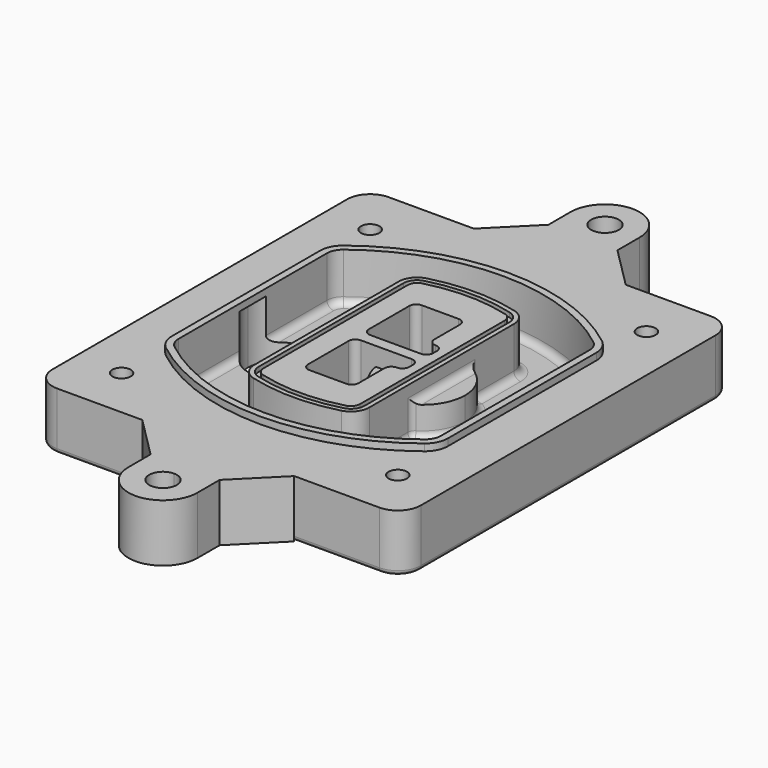
from build123d import *

# Parameters (mm, degrees)
F0_R      = 4
F1_DEPTH  = 25
F2_DEPTH  = 3
F3_DEPTH  = 18
F5_DEPTH  = 21
F6_DEPTH  = 2
F8_DEPTH  = 20
F9_DEPTH  = 16
F10_DEPTH = 25
F7_R      = 6
F7_R_2    = 4
F11_DEPTH = 6
F13_DEPTH = 9
F14_R     = 3
F15_R     = 2
F16_R     = 6
F17_DEPTH = 25


with BuildPart() as f1:
    # F0 (on Top) → F1 (new body)
    with BuildSketch(Plane.XY):
        with BuildLine():
            ThreePointArc((14.05, 38.3825811321), (16.9789321881, 31.3115133202), (24.05, 28.3825811321))
            Line((24.05, 28.3825811321), (164.05, 28.3825811321))
            ThreePointArc((164.05, 28.3825811321), (171.1210678119, 31.3115133202), (174.05, 38.3825811321))
            Line((174.05, 38.3825811321), (174.05, 198.3825811321))
            ThreePointArc((174.05, 198.3825811321), (171.1210678119, 205.4536489439), (164.05, 208.3825811321))
            Line((164.05, 208.3825811321), (24.05, 208.3825811321))
            ThreePointArc((24.05, 208.3825811321), (16.9789321881, 205.4536489439), (14.05, 198.3825811321))
            Line((14.05, 198.3825811321), (14.05, 38.3825811321))
        make_face()
        with Locations((34.05, 50.8825811321)):
            Circle(F0_R, mode=Mode.SUBTRACT)
        with Locations((154.05, 50.8825811321)):
            Circle(F0_R, mode=Mode.SUBTRACT)
        with Locations((34.05, 185.8825811321)):
            Circle(F0_R, mode=Mode.SUBTRACT)
        with BuildLine():
            ThreePointArc((30.05, 158.6760234193), (31.4679615202, 164.8154295545), (35.4346153846, 169.7112011673))
            ThreePointArc((35.4346153846, 169.7112011673), (94.05, 189.8825811321), (152.6653846154, 169.7112011673))
            ThreePointArc((152.6653846154, 169.7112011673), (156.6320384798, 164.8154295545), (158.05, 158.6760234193))
            Line((158.05, 158.6760234193), (158.05, 78.0891388448))
            ThreePointArc((158.05, 78.0891388448), (156.6320384798, 71.9497327097), (152.6653846154, 67.0539610969))
            ThreePointArc((152.6653846154, 67.0539610969), (94.05, 46.8825811321), (35.4346153846, 67.0539610969))
            ThreePointArc((35.4346153846, 67.0539610969), (31.4679615202, 71.9497327097), (30.05, 78.0891388448))
            Line((30.05, 78.0891388448), (30.05, 158.6760234193))
        make_face(mode=Mode.SUBTRACT)
        with Locations((154.05, 185.8825811321)):
            Circle(F0_R, mode=Mode.SUBTRACT)
        with BuildLine():
            ThreePointArc((152.6653846154, 169.7112011673), (94.05, 189.8825811321), (35.4346153846, 169.7112011673))
            ThreePointArc((35.4346153846, 169.7112011673), (31.4679615202, 164.8154295545), (30.05, 158.6760234193))
            Line((30.05, 158.6760234193), (30.05, 78.0891388448))
            ThreePointArc((30.05, 78.0891388448), (31.4679615202, 71.9497327097), (35.4346153846, 67.0539610969))
            ThreePointArc((35.4346153846, 67.0539610969), (94.05, 46.8825811321), (152.6653846154, 67.0539610969))
            ThreePointArc((152.6653846154, 67.0539610969), (156.6320384798, 71.9497327097), (158.05, 78.0891388448))
            Line((158.05, 78.0891388448), (158.05, 158.6760234193))
            ThreePointArc((158.05, 158.6760234193), (156.6320384798, 164.8154295545), (152.6653846154, 169.7112011673))
        make_face()
        with BuildLine():
            Line((34.05, 78.0891388448), (34.05, 158.6760234193))
            ThreePointArc((34.05, 158.6760234193), (35.0628296573, 163.0613135158), (37.8961538462, 166.5582932393))
            ThreePointArc((37.8961538462, 166.5582932393), (94.05, 185.8825811321), (150.2038461538, 166.5582932393))
            ThreePointArc((150.2038461538, 166.5582932393), (153.0371703427, 163.0613135158), (154.05, 158.6760234193))
            Line((154.05, 158.6760234193), (154.05, 78.0891388448))
            ThreePointArc((154.05, 78.0891388448), (153.0371703427, 73.7038487483), (150.2038461538, 70.2068690248))
            ThreePointArc((150.2038461538, 70.2068690248), (94.05, 50.8825811321), (37.8961538462, 70.2068690248))
            ThreePointArc((37.8961538462, 70.2068690248), (35.0628296573, 73.7038487483), (34.05, 78.0891388448))
        make_face(mode=Mode.SUBTRACT)
        with BuildLine():
            ThreePointArc((37.8961538462, 166.5582932393), (35.0628296573, 163.0613135158), (34.05, 158.6760234193))
            Line((34.05, 158.6760234193), (34.05, 78.0891388448))
            ThreePointArc((34.05, 78.0891388448), (35.0628296573, 73.7038487483), (37.8961538462, 70.2068690248))
            ThreePointArc((37.8961538462, 70.2068690248), (94.05, 50.8825811321), (150.2038461538, 70.2068690248))
            ThreePointArc((150.2038461538, 70.2068690248), (153.0371703427, 73.7038487483), (154.05, 78.0891388448))
            Line((154.05, 78.0891388448), (154.05, 158.6760234193))
            ThreePointArc((154.05, 158.6760234193), (153.0371703427, 163.0613135158), (150.2038461538, 166.5582932393))
            ThreePointArc((150.2038461538, 166.5582932393), (94.05, 185.8825811321), (37.8961538462, 166.5582932393))
        make_face()
        with BuildLine():
            ThreePointArc((148.3576923077, 164.1936122933), (150.3410192399, 161.7457264869), (151.05, 158.6760234193))
            Line((151.05, 158.6760234193), (151.05, 78.0891388448))
            ThreePointArc((151.05, 78.0891388448), (150.3410192399, 75.0194357772), (148.3576923077, 72.5715499708))
            ThreePointArc((148.3576923077, 72.5715499708), (94.05, 53.8825811321), (39.7423076923, 72.5715499708))
            ThreePointArc((39.7423076923, 72.5715499708), (37.7589807601, 75.0194357772), (37.05, 78.0891388448))
            Line((37.05, 78.0891388448), (37.05, 158.6760234193))
            ThreePointArc((37.05, 158.6760234193), (37.7589807601, 161.7457264869), (39.7423076923, 164.1936122933))
            ThreePointArc((39.7423076923, 164.1936122933), (94.05, 182.8825811321), (148.3576923077, 164.1936122933))
        make_face(mode=Mode.SUBTRACT)
        with BuildLine():
            Line((151.05, 78.0891388448), (151.05, 158.6760234193))
            ThreePointArc((151.05, 158.6760234193), (150.3410192399, 161.7457264869), (148.3576923077, 164.1936122933))
            ThreePointArc((148.3576923077, 164.1936122933), (94.05, 182.8825811321), (39.7423076923, 164.1936122933))
            ThreePointArc((39.7423076923, 164.1936122933), (37.7589807601, 161.7457264869), (37.05, 158.6760234193))
            Line((37.05, 158.6760234193), (37.05, 78.0891388448))
            ThreePointArc((37.05, 78.0891388448), (37.7589807601, 75.0194357772), (39.7423076923, 72.5715499708))
            ThreePointArc((39.7423076923, 72.5715499708), (94.05, 53.8825811321), (148.3576923077, 72.5715499708))
            ThreePointArc((148.3576923077, 72.5715499708), (150.3410192399, 75.0194357772), (151.05, 78.0891388448))
        make_face()
    extrude(amount=-F1_DEPTH)

    # F0 (on Top) → F2 (join)
    with BuildSketch(Plane.XY):
        with BuildLine():
            ThreePointArc((37.8961538462, 166.5582932393), (35.0628296573, 163.0613135158), (34.05, 158.6760234193))
            Line((34.05, 158.6760234193), (34.05, 78.0891388448))
            ThreePointArc((34.05, 78.0891388448), (35.0628296573, 73.7038487483), (37.8961538462, 70.2068690248))
            ThreePointArc((37.8961538462, 70.2068690248), (94.05, 50.8825811321), (150.2038461538, 70.2068690248))
            ThreePointArc((150.2038461538, 70.2068690248), (153.0371703427, 73.7038487483), (154.05, 78.0891388448))
            Line((154.05, 78.0891388448), (154.05, 158.6760234193))
            ThreePointArc((154.05, 158.6760234193), (153.0371703427, 163.0613135158), (150.2038461538, 166.5582932393))
            ThreePointArc((150.2038461538, 166.5582932393), (94.05, 185.8825811321), (37.8961538462, 166.5582932393))
        make_face()
        with BuildLine():
            ThreePointArc((148.3576923077, 164.1936122933), (150.3410192399, 161.7457264869), (151.05, 158.6760234193))
            Line((151.05, 158.6760234193), (151.05, 78.0891388448))
            ThreePointArc((151.05, 78.0891388448), (150.3410192399, 75.0194357772), (148.3576923077, 72.5715499708))
            ThreePointArc((148.3576923077, 72.5715499708), (94.05, 53.8825811321), (39.7423076923, 72.5715499708))
            ThreePointArc((39.7423076923, 72.5715499708), (37.7589807601, 75.0194357772), (37.05, 78.0891388448))
            Line((37.05, 78.0891388448), (37.05, 158.6760234193))
            ThreePointArc((37.05, 158.6760234193), (37.7589807601, 161.7457264869), (39.7423076923, 164.1936122933))
            ThreePointArc((39.7423076923, 164.1936122933), (94.05, 182.8825811321), (148.3576923077, 164.1936122933))
        make_face(mode=Mode.SUBTRACT)
    extrude(amount=F2_DEPTH)

    # F0 (on Top) → F3 (cut)
    with BuildSketch(Plane.XY):
        with BuildLine():
            Line((151.05, 78.0891388448), (151.05, 158.6760234193))
            ThreePointArc((151.05, 158.6760234193), (150.3410192399, 161.7457264869), (148.3576923077, 164.1936122933))
            ThreePointArc((148.3576923077, 164.1936122933), (94.05, 182.8825811321), (39.7423076923, 164.1936122933))
            ThreePointArc((39.7423076923, 164.1936122933), (37.7589807601, 161.7457264869), (37.05, 158.6760234193))
            Line((37.05, 158.6760234193), (37.05, 78.0891388448))
            ThreePointArc((37.05, 78.0891388448), (37.7589807601, 75.0194357772), (39.7423076923, 72.5715499708))
            ThreePointArc((39.7423076923, 72.5715499708), (94.05, 53.8825811321), (148.3576923077, 72.5715499708))
            ThreePointArc((148.3576923077, 72.5715499708), (150.3410192399, 75.0194357772), (151.05, 78.0891388448))
        make_face()
    extrude(amount=-F3_DEPTH, mode=Mode.SUBTRACT)

    # F4 (on face) → F5 (join, through all)
    with BuildSketch(Plane.XY.offset(3)):
        with BuildLine():
            ThreePointArc((69.05, 79.13605345), (70.6988454002, 74.2716074127), (74.9657088123, 71.4123412437))
            ThreePointArc((74.9657088123, 71.4123412437), (94.05, 68.8825811321), (113.1342911877, 71.4123412437))
            ThreePointArc((113.1342911877, 71.4123412437), (117.4011545998, 74.2716074127), (119.05, 79.13605345))
            Line((119.05, 79.13605345), (119.05, 157.6291088141))
            ThreePointArc((119.05, 157.6291088141), (117.4011545998, 162.4935548514), (113.1342911877, 165.3528210204))
            ThreePointArc((113.1342911877, 165.3528210204), (94.05, 167.8825811321), (74.9657088123, 165.3528210204))
            ThreePointArc((74.9657088123, 165.3528210204), (70.6988454002, 162.4935548514), (69.05, 157.6291088141))
            Line((69.05, 157.6291088141), (69.05, 79.13605345))
        make_face()
        with BuildLine():
            ThreePointArc((112.6132183908, 163.4218929688), (115.8133659499, 161.2774433421), (117.05, 157.6291088141))
            Line((117.05, 157.6291088141), (117.05, 79.13605345))
            ThreePointArc((117.05, 79.13605345), (115.8133659499, 75.4877189221), (112.6132183908, 73.3432692953))
            ThreePointArc((112.6132183908, 73.3432692953), (94.05, 70.8825811321), (75.4867816092, 73.3432692953))
            ThreePointArc((75.4867816092, 73.3432692953), (72.2866340501, 75.4877189221), (71.05, 79.13605345))
            Line((71.05, 79.13605345), (71.05, 157.6291088141))
            ThreePointArc((71.05, 157.6291088141), (72.2866340501, 161.2774433421), (75.4867816092, 163.4218929688))
            ThreePointArc((75.4867816092, 163.4218929688), (94.05, 165.8825811321), (112.6132183908, 163.4218929688))
        make_face(mode=Mode.SUBTRACT)
        with BuildLine():
            Line((117.05, 79.13605345), (117.05, 157.6291088141))
            ThreePointArc((117.05, 157.6291088141), (115.8133659499, 161.2774433421), (112.6132183908, 163.4218929688))
            ThreePointArc((112.6132183908, 163.4218929688), (94.05, 165.8825811321), (75.4867816092, 163.4218929688))
            ThreePointArc((75.4867816092, 163.4218929688), (72.2866340501, 161.2774433421), (71.05, 157.6291088141))
            Line((71.05, 157.6291088141), (71.05, 79.13605345))
            ThreePointArc((71.05, 79.13605345), (72.2866340501, 75.4877189221), (75.4867816092, 73.3432692953))
            ThreePointArc((75.4867816092, 73.3432692953), (94.05, 70.8825811321), (112.6132183908, 73.3432692953))
            ThreePointArc((112.6132183908, 73.3432692953), (115.8133659499, 75.4877189221), (117.05, 79.13605345))
        make_face()
        with BuildLine():
            ThreePointArc((112.0921455939, 161.4909649173), (114.2255772999, 160.0613318328), (115.05, 157.6291088141))
            Line((115.05, 157.6291088141), (115.05, 79.13605345))
            ThreePointArc((115.05, 79.13605345), (114.2255772999, 76.7038304314), (112.0921455939, 75.2741973469))
            ThreePointArc((112.0921455939, 75.2741973469), (94.05, 72.8825811321), (76.0078544061, 75.2741973469))
            ThreePointArc((76.0078544061, 75.2741973469), (73.8744227001, 76.7038304314), (73.05, 79.13605345))
            Line((73.05, 79.13605345), (73.05, 157.6291088141))
            ThreePointArc((73.05, 157.6291088141), (73.8744227001, 160.0613318328), (76.0078544061, 161.4909649173))
            ThreePointArc((76.0078544061, 161.4909649173), (94.05, 163.8825811321), (112.0921455939, 161.4909649173))
        make_face(mode=Mode.SUBTRACT)
        with BuildLine():
            Line((115.05, 79.13605345), (115.05, 157.6291088141))
            ThreePointArc((115.05, 157.6291088141), (114.2255772999, 160.0613318328), (112.0921455939, 161.4909649173))
            ThreePointArc((112.0921455939, 161.4909649173), (94.05, 163.8825811321), (76.0078544061, 161.4909649173))
            ThreePointArc((76.0078544061, 161.4909649173), (73.8744227001, 160.0613318328), (73.05, 157.6291088141))
            Line((73.05, 157.6291088141), (73.05, 79.13605345))
            ThreePointArc((73.05, 79.13605345), (73.8744227001, 76.7038304314), (76.0078544061, 75.2741973469))
            ThreePointArc((76.0078544061, 75.2741973469), (94.05, 72.8825811321), (112.0921455939, 75.2741973469))
            ThreePointArc((112.0921455939, 75.2741973469), (114.2255772999, 76.7038304314), (115.05, 79.13605345))
        make_face()
        with BuildLine():
            Line((86.05, 115.8825811321), (108.05, 115.8825811321))
            ThreePointArc((108.05, 115.8825811321), (110.1713203436, 115.0039014756), (111.05, 112.8825811321))
            Line((111.05, 112.8825811321), (111.05, 110.8825811321))
            ThreePointArc((111.05, 110.8825811321), (110.1713203436, 108.7612607885), (108.05, 107.8825811321))
            ThreePointArc((108.05, 107.8825811321), (105.9286796564, 107.0039014756), (105.05, 104.8825811321))
            Line((105.05, 104.8825811321), (105.05, 90.8825811321))
            ThreePointArc((105.05, 90.8825811321), (104.1713203436, 88.7612607885), (102.05, 87.8825811321))
            Line((102.05, 87.8825811321), (86.05, 87.8825811321))
            ThreePointArc((86.05, 87.8825811321), (83.9286796564, 88.7612607885), (83.05, 90.8825811321))
            Line((83.05, 90.8825811321), (83.05, 112.8825811321))
            ThreePointArc((83.05, 112.8825811321), (83.9286796564, 115.0039014756), (86.05, 115.8825811321))
        make_face(mode=Mode.SUBTRACT)
        with BuildLine():
            ThreePointArc((86.05, 120.8825811321), (83.9286796564, 121.7612607885), (83.05, 123.8825811321))
            Line((83.05, 123.8825811321), (83.05, 145.8825811321))
            ThreePointArc((83.05, 145.8825811321), (83.9286796564, 148.0039014756), (86.05, 148.8825811321))
            Line((86.05, 148.8825811321), (102.05, 148.8825811321))
            ThreePointArc((102.05, 148.8825811321), (104.1713203436, 148.0039014756), (105.05, 145.8825811321))
            Line((105.05, 145.8825811321), (105.05, 131.8825811321))
            ThreePointArc((105.05, 131.8825811321), (105.9286796564, 129.7612607885), (108.05, 128.8825811321))
            ThreePointArc((108.05, 128.8825811321), (110.1713203436, 128.0039014756), (111.05, 125.8825811321))
            Line((111.05, 125.8825811321), (111.05, 123.8825811321))
            ThreePointArc((111.05, 123.8825811321), (110.1713203436, 121.7612607885), (108.05, 120.8825811321))
            Line((108.05, 120.8825811321), (86.05, 120.8825811321))
        make_face(mode=Mode.SUBTRACT)
    extrude(amount=-F5_DEPTH)

    # F4 (on face) → F6 (cut)
    with BuildSketch(Plane.XY.offset(3)):
        with BuildLine():
            Line((117.05, 79.13605345), (117.05, 157.6291088141))
            ThreePointArc((117.05, 157.6291088141), (115.8133659499, 161.2774433421), (112.6132183908, 163.4218929688))
            ThreePointArc((112.6132183908, 163.4218929688), (94.05, 165.8825811321), (75.4867816092, 163.4218929688))
            ThreePointArc((75.4867816092, 163.4218929688), (72.2866340501, 161.2774433421), (71.05, 157.6291088141))
            Line((71.05, 157.6291088141), (71.05, 79.13605345))
            ThreePointArc((71.05, 79.13605345), (72.2866340501, 75.4877189221), (75.4867816092, 73.3432692953))
            ThreePointArc((75.4867816092, 73.3432692953), (94.05, 70.8825811321), (112.6132183908, 73.3432692953))
            ThreePointArc((112.6132183908, 73.3432692953), (115.8133659499, 75.4877189221), (117.05, 79.13605345))
        make_face()
        with BuildLine():
            ThreePointArc((112.0921455939, 161.4909649173), (114.2255772999, 160.0613318328), (115.05, 157.6291088141))
            Line((115.05, 157.6291088141), (115.05, 79.13605345))
            ThreePointArc((115.05, 79.13605345), (114.2255772999, 76.7038304314), (112.0921455939, 75.2741973469))
            ThreePointArc((112.0921455939, 75.2741973469), (94.05, 72.8825811321), (76.0078544061, 75.2741973469))
            ThreePointArc((76.0078544061, 75.2741973469), (73.8744227001, 76.7038304314), (73.05, 79.13605345))
            Line((73.05, 79.13605345), (73.05, 157.6291088141))
            ThreePointArc((73.05, 157.6291088141), (73.8744227001, 160.0613318328), (76.0078544061, 161.4909649173))
            ThreePointArc((76.0078544061, 161.4909649173), (94.05, 163.8825811321), (112.0921455939, 161.4909649173))
        make_face(mode=Mode.SUBTRACT)
    extrude(amount=-F6_DEPTH, mode=Mode.SUBTRACT)

    # F7 (on face) → F8 (join)
    with BuildSketch(Plane(origin=(0, 0, -25), x_dir=(1, 0, 0), z_dir=(0, 0, -1))):
        with BuildLine():
            ThreePointArc((97.33842436, -118.3825811321), (110.8067035675, -104.9143019245), (124.274982775, -118.3825811321))
            Line((124.274982775, -118.3825811321), (129.274982775, -118.3825811321))
            ThreePointArc((129.274982775, -118.3825811321), (110.8067035675, -99.9143019245), (92.33842436, -118.3825811321))
            Line((92.33842436, -118.3825811321), (97.33842436, -118.3825811321))
        make_face()
        with BuildLine():
            Line((97.33842436, -118.3825811321), (124.274982775, -118.3825811321))
            ThreePointArc((124.274982775, -118.3825811321), (110.8067035675, -104.9143019245), (97.33842436, -118.3825811321))
        make_face()
        with BuildLine():
            ThreePointArc((97.33842436, -118.3825811321), (110.8067035675, -131.8508603396), (124.274982775, -118.3825811321))
            Line((124.274982775, -118.3825811321), (97.33842436, -118.3825811321))
        make_face()
        with BuildLine():
            Line((129.274982775, -118.3825811321), (124.274982775, -118.3825811321))
            ThreePointArc((124.274982775, -118.3825811321), (110.8067035675, -131.8508603396), (97.33842436, -118.3825811321))
            Line((97.33842436, -118.3825811321), (92.33842436, -118.3825811321))
            ThreePointArc((92.33842436, -118.3825811321), (110.8067035675, -136.8508603396), (129.274982775, -118.3825811321))
        make_face()
    extrude(amount=-F8_DEPTH)

    # F7 (on face) → F9 (cut)
    with BuildSketch(Plane(origin=(0, 0, -25), x_dir=(1, 0, 0), z_dir=(0, 0, -1))):
        with BuildLine():
            Line((97.33842436, -118.3825811321), (124.274982775, -118.3825811321))
            ThreePointArc((124.274982775, -118.3825811321), (110.8067035675, -104.9143019245), (97.33842436, -118.3825811321))
        make_face()
        with BuildLine():
            ThreePointArc((97.33842436, -118.3825811321), (110.8067035675, -131.8508603396), (124.274982775, -118.3825811321))
            Line((124.274982775, -118.3825811321), (97.33842436, -118.3825811321))
        make_face()
    extrude(amount=-F9_DEPTH, mode=Mode.SUBTRACT)

    # F7 (on face) → F10 (cut)
    with BuildSketch(Plane(origin=(0, 0, -25), x_dir=(1, 0, 0), z_dir=(0, 0, -1))):
        with BuildLine():
            Line((35.0181770675, -118.3825811321), (61.9547354825, -118.3825811321))
            ThreePointArc((61.9547354825, -118.3825811321), (48.486456275, -104.9143019245), (35.0181770675, -118.3825811321))
        make_face()
        with BuildLine():
            ThreePointArc((35.0181770675, -118.3825811321), (48.486456275, -131.8508603396), (61.9547354825, -118.3825811321))
            Line((61.9547354825, -118.3825811321), (35.0181770675, -118.3825811321))
        make_face()
    extrude(amount=-F10_DEPTH, mode=Mode.SUBTRACT)

    # F7 (on face) → F11 (cut)
    with BuildSketch(Plane(origin=(0, 0, -25), x_dir=(1, 0, 0), z_dir=(0, 0, -1))):
        with Locations((154.05, -185.8825811321)):
            Circle(F7_R)
        with Locations((154.05, -185.8825811321)):
            Circle(F7_R_2, mode=Mode.SUBTRACT)
        with Locations((154.05, -185.8825811321)):
            Circle(F7_R)
        with Locations((154.05, -185.8825811321)):
            Circle(F7_R_2, mode=Mode.SUBTRACT)
        with Locations((34.05, -185.8825811321)):
            Circle(F7_R)
        with Locations((34.05, -185.8825811321)):
            Circle(F7_R_2, mode=Mode.SUBTRACT)
        with Locations((34.05, -185.8825811321)):
            Circle(F7_R)
        with Locations((34.05, -185.8825811321)):
            Circle(F7_R_2, mode=Mode.SUBTRACT)
        with Locations((34.05, -50.8825811321)):
            Circle(F7_R)
        with Locations((34.05, -50.8825811321)):
            Circle(F7_R_2, mode=Mode.SUBTRACT)
        with Locations((34.05, -50.8825811321)):
            Circle(F7_R)
        with Locations((34.05, -50.8825811321)):
            Circle(F7_R_2, mode=Mode.SUBTRACT)
        with Locations((154.05, -50.8825811321)):
            Circle(F7_R)
        with Locations((154.05, -50.8825811321)):
            Circle(F7_R_2, mode=Mode.SUBTRACT)
        with Locations((154.05, -50.8825811321)):
            Circle(F7_R)
        with Locations((154.05, -50.8825811321)):
            Circle(F7_R_2, mode=Mode.SUBTRACT)
    extrude(amount=-F11_DEPTH, mode=Mode.SUBTRACT)

    # F12 (on face) → F13 (cut, through all)
    with BuildSketch(Plane(origin=(0, 0, -9), x_dir=(1, 0, 0), z_dir=(0, 0, -1))):
        with BuildLine():
            Line((105.05, -104.8825811321), (105.05, -100.8344273567))
            ThreePointArc((105.05, -100.8344273567), (96.6196536419, -106.5586667507), (92.5084157545, -115.8825811321))
            Line((92.5084157545, -115.8825811321), (97.5724848595, -115.8825811321))
            ThreePointArc((97.5724848595, -115.8825811321), (100.2357188154, -110.0369939039), (105.3036447004, -106.0898642673))
            ThreePointArc((105.3036447004, -106.0898642673), (105.1140958889, -105.4994012441), (105.05, -104.8825811321))
        make_face()
        with BuildLine():
            ThreePointArc((105.3036447004, -130.6752979968), (100.2357188154, -126.7281683602), (97.5724848595, -120.8825811321))
            Line((97.5724848595, -120.8825811321), (92.5084157545, -120.8825811321))
            ThreePointArc((92.5084157545, -120.8825811321), (96.6196536419, -130.2064955134), (105.05, -135.9307349074))
            Line((105.05, -135.9307349074), (105.05, -131.8825811321))
            ThreePointArc((105.05, -131.8825811321), (105.1140958889, -131.26576102), (105.3036447004, -130.6752979968))
        make_face()
        with BuildLine():
            ThreePointArc((105.3036447004, -106.0898642673), (100.2357188154, -110.0369939039), (97.5724848595, -115.8825811321))
            Line((97.5724848595, -115.8825811321), (108.05, -115.8825811321))
            ThreePointArc((108.05, -115.8825811321), (110.1713203436, -115.0039014756), (111.05, -112.8825811321))
            Line((111.05, -112.8825811321), (111.05, -110.8825811321))
            ThreePointArc((111.05, -110.8825811321), (110.1713203436, -108.7612607885), (108.05, -107.8825811321))
            ThreePointArc((108.05, -107.8825811321), (106.4101599782, -107.3947365219), (105.3036447004, -106.0898642673))
        make_face()
        with BuildLine():
            Line((108.05, -120.8825811321), (97.5724848595, -120.8825811321))
            ThreePointArc((97.5724848595, -120.8825811321), (100.2357188154, -126.7281683602), (105.3036447004, -130.6752979968))
            ThreePointArc((105.3036447004, -130.6752979968), (106.4101599782, -129.3704257422), (108.05, -128.8825811321))
            ThreePointArc((108.05, -128.8825811321), (110.1713203436, -128.0039014756), (111.05, -125.8825811321))
            Line((111.05, -125.8825811321), (111.05, -123.8825811321))
            ThreePointArc((111.05, -123.8825811321), (110.1713203436, -121.7612607885), (108.05, -120.8825811321))
        make_face()
    extrude(amount=F13_DEPTH, mode=Mode.SUBTRACT)

    # F14
    f14_edges = [f1.edges().sort_by_distance(p)[0] for p in [
        (37.05, 94.679105, -18),
        (37.05, 142.086057, -18),
        (119.05, 118.382581, -5),
        (119.05, 134.909087, -11.5),
        (119.05, 101.856075, -11.5),
        (119.05, 90.496064, -18),
        (129.274983, 118.382581, -18),
    ]]
    fillet(f14_edges, radius=F14_R)

    # F15
    f15_edges = [f1.edges().sort_by_distance(p)[0] for p in [
        (94.05, 28.382581, -25),
    ]]
    fillet(f15_edges, radius=F15_R)

    # F16 (on face) → F17 (join, through all)
    with BuildSketch(Plane.XY):
        with BuildLine():
            Line((79.05, 226.3825811321), (61.05, 208.3825811321))
            Line((61.05, 208.3825811321), (127.05, 208.3825811321))
            Line((127.05, 208.3825811321), (109.05, 226.3825811321))
            Line((109.05, 226.3825811321), (109.05, 238.3825811321))
            ThreePointArc((109.05, 238.3825811321), (94.05, 253.3825811321), (79.05, 238.3825811321))
            Line((79.05, 238.3825811321), (79.05, 226.3825811321))
        make_face()
        with Locations((94.05, 238.3825811321)):
            Circle(F16_R, mode=Mode.SUBTRACT)
        with BuildLine():
            Line((94.05, 28.3825811321), (61.05, 28.3825811321))
            Line((61.05, 28.3825811321), (79.05, 10.3825811321))
            Line((79.05, 10.3825811321), (79.05, -1.6174188679))
            ThreePointArc((79.05, -1.6174188679), (94.05, -16.6174188679), (109.05, -1.6174188679))
            Line((109.05, -1.6174188679), (109.05, 10.3825811321))
            Line((109.05, 10.3825811321), (127.05, 28.3825811321))
            Line((127.05, 28.3825811321), (94.05, 28.3825811321))
        make_face()
        with BuildLine():
            ThreePointArc((100.05, -1.6174188679), (89.8073593129, -5.8600595551), (94.05, 4.3825811321))
            ThreePointArc((94.05, 4.3825811321), (98.2926406871, 2.6252218192), (100.05, -1.6174188679))
        make_face(mode=Mode.SUBTRACT)
    extrude(amount=-F17_DEPTH)


solid = f1.part
